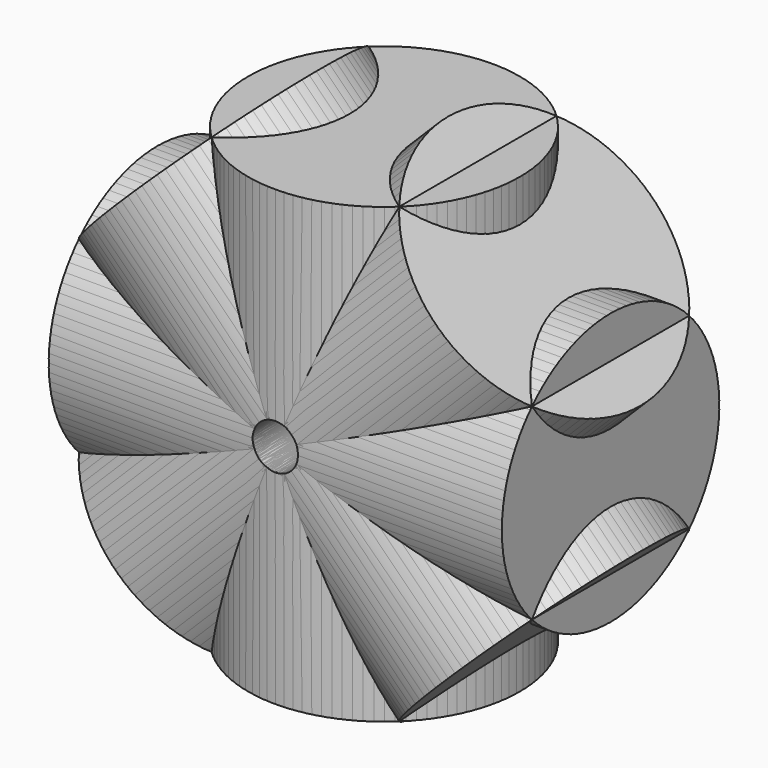
from build123d import *

# Parameters (mm, degrees)
F0_W     = 38.1
F0_H     = 127
F3_R     = 6.35
F4_DEPTH = 12.7
F5_COUNT = 8


with BuildPart() as f1:
    # F0 (on Front) → F1 (revolve)
    with BuildSketch(Plane.XZ):
        with Locations((-19.05, 0)):
            Rectangle(F0_W, F0_H)
    revolve(axis=Axis((0, 0, 0), (0, 0, -1)))

    # F3 (on offset) → F4 (cut)
    with BuildSketch(Plane.XZ.offset(38.1)):
        Circle(F3_R)
    extrude(amount=-F4_DEPTH, mode=Mode.SUBTRACT)


with BuildPart() as f5_1:
    # F5: instance of F1
    add(f1.part.rotate(Axis((0, -25.4, 0), (0, -1, 0)), 1 * 360 / F5_COUNT))


with BuildPart() as f5_2:
    # F5: instance of F1
    add(f1.part.rotate(Axis((0, -25.4, 0), (0, -1, 0)), 2 * 360 / F5_COUNT))


with BuildPart() as f5_3:
    # F5: instance of F1
    add(f1.part.rotate(Axis((0, -25.4, 0), (0, -1, 0)), 3 * 360 / F5_COUNT))


with BuildPart() as f5_4:
    # F5: instance of F1
    add(f1.part.rotate(Axis((0, -25.4, 0), (0, -1, 0)), 4 * 360 / F5_COUNT))


with BuildPart() as f5_5:
    # F5: instance of F1
    add(f1.part.rotate(Axis((0, -25.4, 0), (0, -1, 0)), 5 * 360 / F5_COUNT))


with BuildPart() as f5_6:
    # F5: instance of F1
    add(f1.part.rotate(Axis((0, -25.4, 0), (0, -1, 0)), 6 * 360 / F5_COUNT))


with BuildPart() as f5_7:
    # F5: instance of F1
    add(f1.part.rotate(Axis((0, -25.4, 0), (0, -1, 0)), 7 * 360 / F5_COUNT))


solid = Compound([f1.part, f5_1.part, f5_2.part, f5_3.part, f5_4.part, f5_5.part, f5_6.part, f5_7.part])
